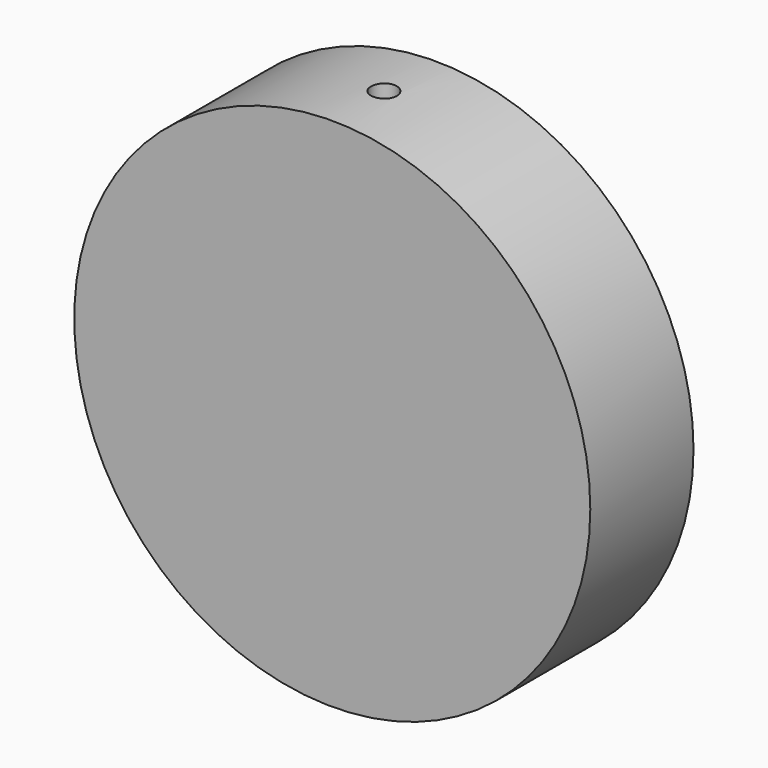
from build123d import *

# Parameters (mm, degrees)
F0_R     = 60
F1_DEPTH = 30
F4_R     = 3
F5_DEPTH = 60


with BuildPart() as f1:
    # F0 (on Front) → F1 (new body)
    with BuildSketch(Plane.XZ):
        Circle(F0_R)
    extrude(amount=F1_DEPTH)

    # F4 (on Top) → F5 (cut, symmetric)
    with BuildSketch(Plane.XY):
        with Locations((0, -15)):
            Circle(F4_R)
    extrude(amount=F5_DEPTH, both=True, mode=Mode.SUBTRACT)


solid = f1.part
